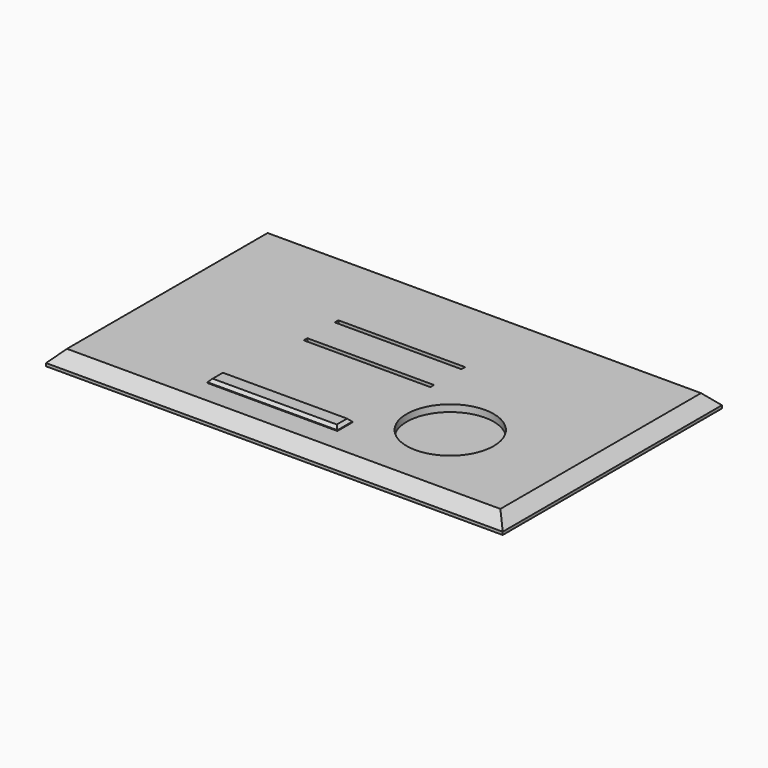
from build123d import *

# Parameters (mm, degrees)
F0_W     = 200
F0_H     = 120
F1_DEPTH = 6.35
F3_SIZE  = 5.08
F4_W     = 56.922462
F4_H     = 8.15711
F5_DEPTH = 1.5875
F6_SIZE  = 1.27
F2_R     = 19.05
F7_DEPTH = 3
F8_W     = 55.5
F8_H     = 2
F9_DEPTH = 2


with BuildPart() as f1:
    # F0 (on Top) → F1 (new body)
    with BuildSketch(Plane.XY):
        with Locations((-100, 60)):
            Rectangle(F0_W, F0_H)
        with Locations((-100, 60)):
            Rectangle(F0_W, F0_H)
    extrude(amount=F1_DEPTH)

    # F3
    f3_edges = [f1.edges().sort_by_distance(p)[0] for p in [
        (-200, 60, 6.35),
        (-100, 120, 6.35),
        (-100, 0, 6.35),
        (0, 60, 6.35),
    ]]
    chamfer(f3_edges, length=F3_SIZE)

    # F4 (on face) → F5 (join)
    with BuildSketch(Plane.XY.offset(6.35)):
        with Locations((-113.111961, 19.376122)):
            Rectangle(F4_W, F4_H)
    extrude(amount=F5_DEPTH)

    # F6
    f6_edges = [f1.edges().sort_by_distance(p)[0] for p in [
        (-113.111961, 15.297567, 7.9375),
        (-141.573192, 19.376122, 7.9375),
        (-113.111961, 23.454677, 7.9375),
        (-84.65073, 19.376122, 7.9375),
    ]]
    chamfer(f6_edges, length=F6_SIZE)

    # F2 (on face) → F7 (cut)
    with BuildSketch(Plane.XY.offset(6.35)):
        with Locations((-55, 40)):
            Circle(F2_R)
    extrude(amount=-F7_DEPTH, mode=Mode.SUBTRACT)

    # F8 (on face) → F9 (cut)
    with BuildSketch(Plane.XY.offset(6.35)):
        with Locations((-107.8826, 78.554325)):
            Rectangle(F8_W, F8_H)
        with Locations((-107.8826, 61.554325)):
            Rectangle(F8_W, F8_H)
    extrude(amount=-F9_DEPTH, mode=Mode.SUBTRACT)


solid = f1.part
